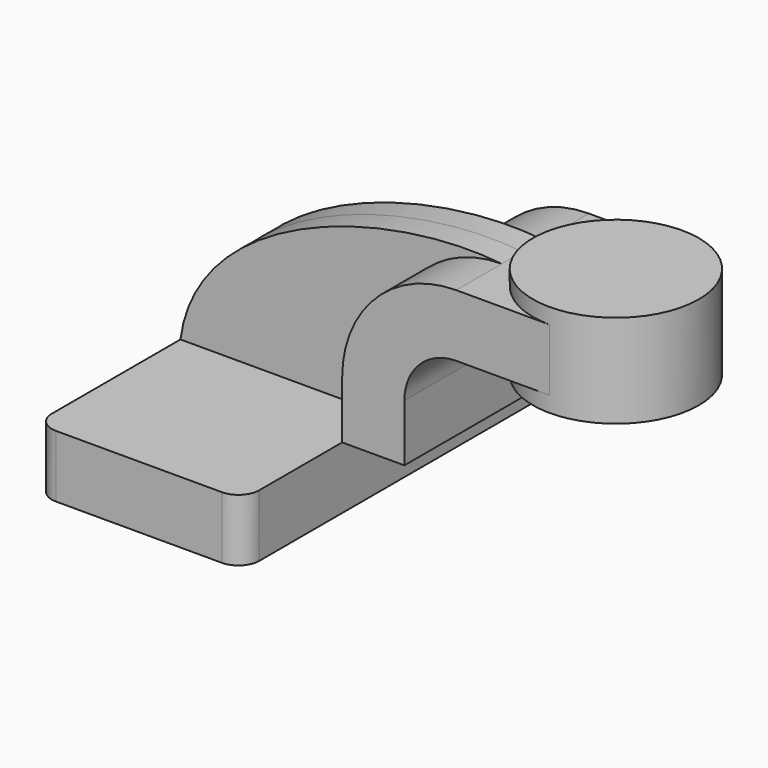
from build123d import *

# Parameters (mm, degrees)
F0_W     = 63.5
F0_H     = 19.05
F1_DEPTH = 63.5
F0_W_2   = 25.4
F2_DEPTH = 25.4
F3_DEPTH = 7.9375
F5_R     = 6.35


with BuildPart() as f1:
    # F0 (on Front) → F1 (new body, symmetric)
    with BuildSketch(Plane.XZ):
        with Locations((-9.525, 0)):
            Rectangle(F0_W, F0_H)
    extrude(amount=F1_DEPTH, both=True)

    # F5
    f5_edges = [f1.edges().sort_by_distance(p)[0] for p in [
        (-41.275, -63.5, 0),
        (22.225, -63.5, 0),
        (-41.275, 63.5, 0),
        (22.225, 63.5, 0),
    ]]
    fillet(f5_edges, radius=F5_R)


with BuildPart() as f2:
    # F0 (on Front) → F2 (new body, symmetric)
    with BuildSketch(Plane.XZ):
        with BuildLine():
            Line((22.225, 9.525), (41.275, 9.525))
            Line((41.275, 9.525), (41.275, 27.0002))
            ThreePointArc((41.275, 27.0002), (45.9246798487, 38.2255201513), (57.15, 42.8752))
            Line((57.15, 42.8752), (60.325, 42.8752))
            Line((60.325, 42.8752), (60.325, 61.9252))
            Line((60.325, 61.9252), (57.15, 61.9252))
            ThreePointArc((57.15, 61.9252), (32.4542956671, 51.6959043329), (22.225, 27.0002))
            Line((22.225, 27.0002), (22.225, 9.525))
        make_face()
        with Locations((73.025, 52.4002)):
            Rectangle(F0_W_2, F0_H)
    extrude(amount=F2_DEPTH, both=True)

    # F0 (on Front) → F4 (revolve)
    with BuildSketch(Plane.XZ):
        Polygon((85.725, 61.9252), (85.725, 42.8752), (85.725, 38.1), (111.125, 38.1), (111.125, 66.675), (85.725, 66.675), align=None)
    revolve(axis=Axis((85.725, 0, 52.3875), (0, 0, 1)))


with BuildPart() as f3:
    # F0 (on Front) → F3 (new body, symmetric)
    with BuildSketch(Plane.XZ):
        with BuildLine():
            Line((-41.275, 9.525), (22.225, 9.525))
            Line((22.225, 9.525), (22.225, 27.0002))
            ThreePointArc((22.225, 27.0002), (32.4542956671, 51.6959043329), (57.15, 61.9252))
            add(Edge.make_bspline(
                [(-41.275, 9.525), (-36.2995113248, 48.0142694389), (21.47303888, 65.7654965479), (57.15, 61.9252)],
                knots=[0, 0, 0, 0, 111.5045361635, 111.5045361635, 111.5045361635, 111.5045361635], degree=3))
        make_face()
    extrude(amount=F3_DEPTH, both=True)


solid = Compound([f1.part, f2.part, f3.part])
